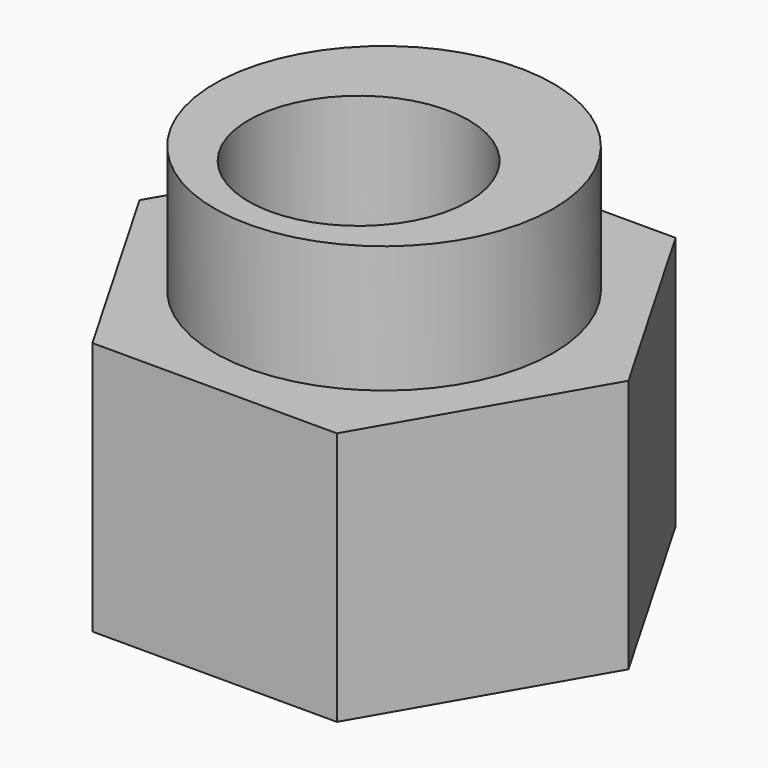
from build123d import *

# Parameters (mm, degrees)
F2_R     = 4
F2_R_2   = 2.6
F3_DEPTH = 6
F4_DEPTH = 9


with BuildPart() as f3:
    # F2 (on Top) → F3 (new body)
    with BuildSketch(Plane.XY):
        Polygon((2.8867513459, 5), (-2.8867513459, 5), (-5.7735026919, 0), (-2.8867513459, -5), (2.8867513459, -5), (5.7735026919, 0), align=None)
        Circle(F2_R, mode=Mode.SUBTRACT)
        Circle(F2_R)
        with Locations((0, -0.75)):
            Circle(F2_R_2, mode=Mode.SUBTRACT)
    extrude(amount=F3_DEPTH)

    # F2 (on Top) → F4 (join)
    with BuildSketch(Plane.XY):
        Circle(F2_R)
        with Locations((0, -0.75)):
            Circle(F2_R_2, mode=Mode.SUBTRACT)
    extrude(amount=F4_DEPTH)


solid = f3.part
